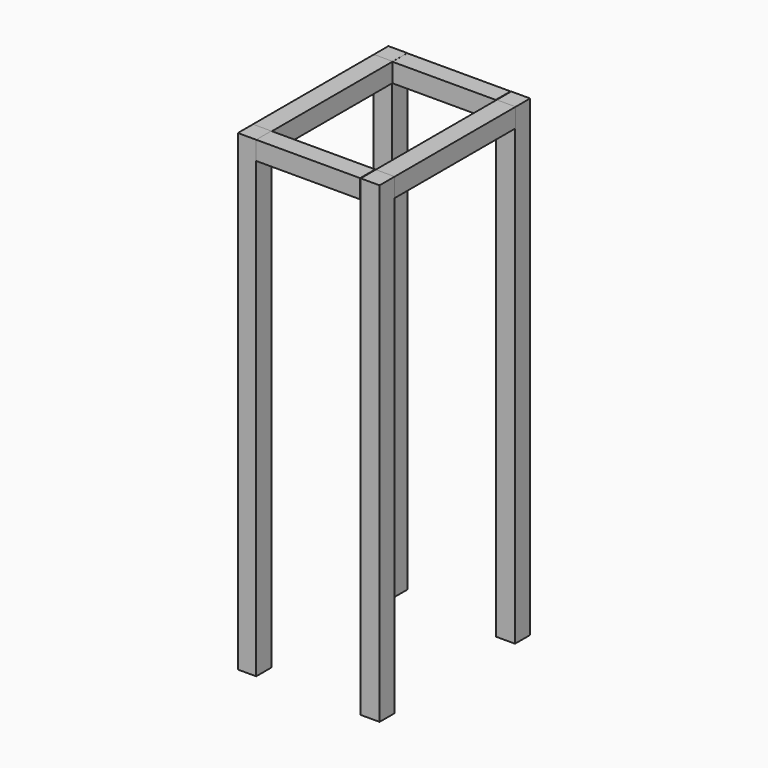
from build123d import *

# Parameters (mm, degrees)
F1_W     = 20
F1_H     = 20
F1_W_2   = 19.393947
F2_DEPTH = 500
F3_W     = 20
F3_H     = 20
F4_DEPTH = 160
F5_W     = 20
F5_H     = 19.769341
F5_W_2   = 19.589409
F5_H_2   = 20.003289
F6_DEPTH = 110


with BuildPart() as f2:
    # F1 (on Top) → F2 (new body)
    with BuildSketch(Plane.XY):
        with Locations((10, 189.199662)):
            Rectangle(F1_W, F1_H)
        with Locations((140, 189.199662)):
            Rectangle(F1_W, F1_H)
        with Locations((140, 10)):
            Rectangle(F1_W, F1_H)
        with Locations((9.702087, 10.024875)):
            Rectangle(F1_W_2, F1_H)
    extrude(amount=F2_DEPTH)


with BuildPart() as f4:
    # F3 (on face) → F4 (new body)
    with BuildSketch(Plane(origin=(0, 20, 0), x_dir=(-1, 0, 0), z_dir=(0, 1, 0))):
        with Locations((-140, 490)):
            Rectangle(F3_W, F3_H)
        with Locations((-10, 490)):
            Rectangle(F3_W, F3_H)
    extrude(amount=F4_DEPTH)


with BuildPart() as f6:
    # F5 (on face) → F6 (new body)
    with BuildSketch(Plane.YZ.offset(19.39906)):
        with Locations((10.024875, 490.11533)):
            Rectangle(F5_W, F5_H)
        with Locations((189.238704, 489.95842)):
            Rectangle(F5_W_2, F5_H_2)
    extrude(amount=F6_DEPTH)


solid = Compound([f2.part, f4.part, f6.part])
